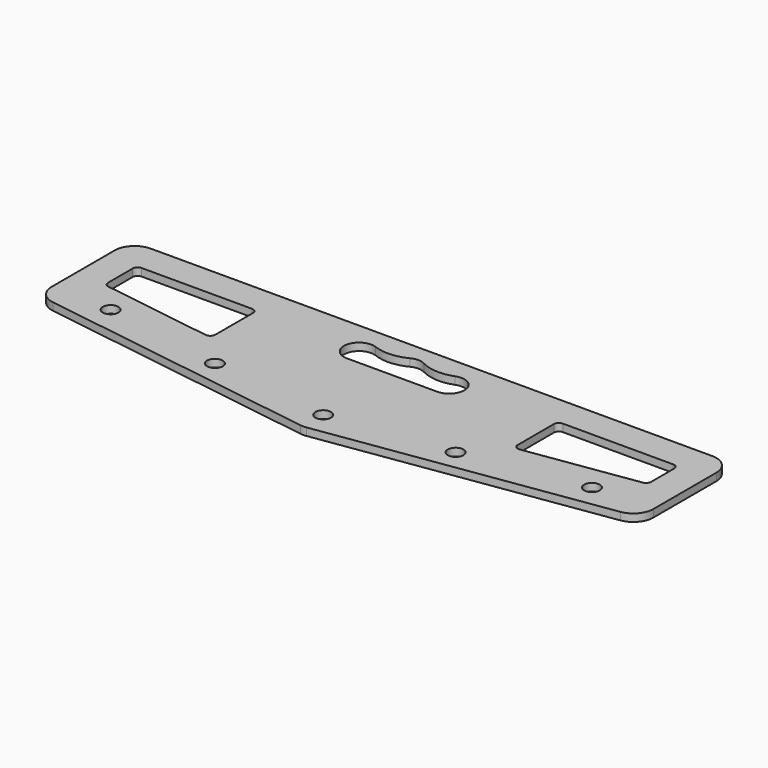
from build123d import *

# Parameters (mm, degrees)
F0_R     = 9.906
F1_DEPTH = 9.525


with BuildPart() as f1:
    # F0 (on Top) → F1 (new body)
    with BuildSketch(Plane.XY):
        with BuildLine():
            Line((736.6, 203.2), (25.4, 203.2))
            ThreePointArc((25.4, 203.2), (7.439488, 195.760512), (0, 177.8))
            Line((0, 177.8), (0, 78.179655))
            ThreePointArc((0, 78.179655), (6.166179, 61.589895), (21.670877, 53.054893))
            Line((21.670877, 53.054893), (377.270877, 0.275239))
            ThreePointArc((377.270877, 0.275239), (381, 0), (384.729123, 0.275239))
            Line((384.729123, 0.275239), (740.329123, 53.054893))
            ThreePointArc((740.329123, 53.054893), (755.833821, 61.589895), (762, 78.179655))
            Line((762, 78.179655), (762, 177.8))
            ThreePointArc((762, 177.8), (754.560512, 195.760512), (736.6, 203.2))
        make_face()
        with Locations((228.6, 50.8)):
            Circle(F0_R, mode=Mode.SUBTRACT)
        with Locations((76.2, 76.2)):
            Circle(F0_R, mode=Mode.SUBTRACT)
        with Locations((381, 31.75)):
            Circle(F0_R, mode=Mode.SUBTRACT)
        with Locations((533.4, 50.8)):
            Circle(F0_R, mode=Mode.SUBTRACT)
        with Locations((685.8, 76.2)):
            Circle(F0_R, mode=Mode.SUBTRACT)
        with BuildLine():
            ThreePointArc((38.1, 158.75), (39.959872, 163.240128), (44.45, 165.1))
            Line((44.45, 165.1), (184.15, 165.1))
            ThreePointArc((184.15, 165.1), (188.640128, 163.240128), (190.5, 158.75))
            Line((190.5, 158.75), (190.5, 99.042205))
            ThreePointArc((190.5, 99.042205), (188.29744, 94.23375), (183.217719, 92.761015))
            Line((183.217719, 92.761015), (43.517719, 113.495879))
            ThreePointArc((43.517719, 113.495879), (39.641545, 115.62963), (38.1, 119.77707))
            Line((38.1, 119.77707), (38.1, 158.75))
        make_face(mode=Mode.SUBTRACT)
        with BuildLine():
            ThreePointArc((571.5, 158.75), (573.359872, 163.240128), (577.85, 165.1))
            Line((577.85, 165.1), (717.55, 165.1))
            ThreePointArc((717.55, 165.1), (722.040128, 163.240128), (723.9, 158.75))
            Line((723.9, 158.75), (723.9, 122.180496))
            ThreePointArc((723.9, 122.180496), (722.358455, 118.033056), (718.482281, 115.899306))
            Line((718.482281, 115.899306), (578.782281, 95.164442))
            ThreePointArc((578.782281, 95.164442), (573.70256, 96.637177), (571.5, 101.445632))
            Line((571.5, 101.445632), (571.5, 158.75))
        make_face(mode=Mode.SUBTRACT)
        with BuildLine():
            Line((438.15, 140.843), (323.85, 140.843))
            ThreePointArc((323.85, 140.843), (305.119222, 163.365817), (330.679245, 177.67681))
            ThreePointArc((330.679245, 177.67681), (351.708443, 174.378518), (372.242882, 179.985901))
            ThreePointArc((372.242882, 179.985901), (381, 182.118), (389.757118, 179.985901))
            ThreePointArc((389.757118, 179.985901), (410.291557, 174.378518), (431.320755, 177.67681))
            ThreePointArc((431.320755, 177.67681), (456.880778, 163.365817), (438.15, 140.843))
        make_face(mode=Mode.SUBTRACT)
    extrude(amount=F1_DEPTH)


solid = f1.part
